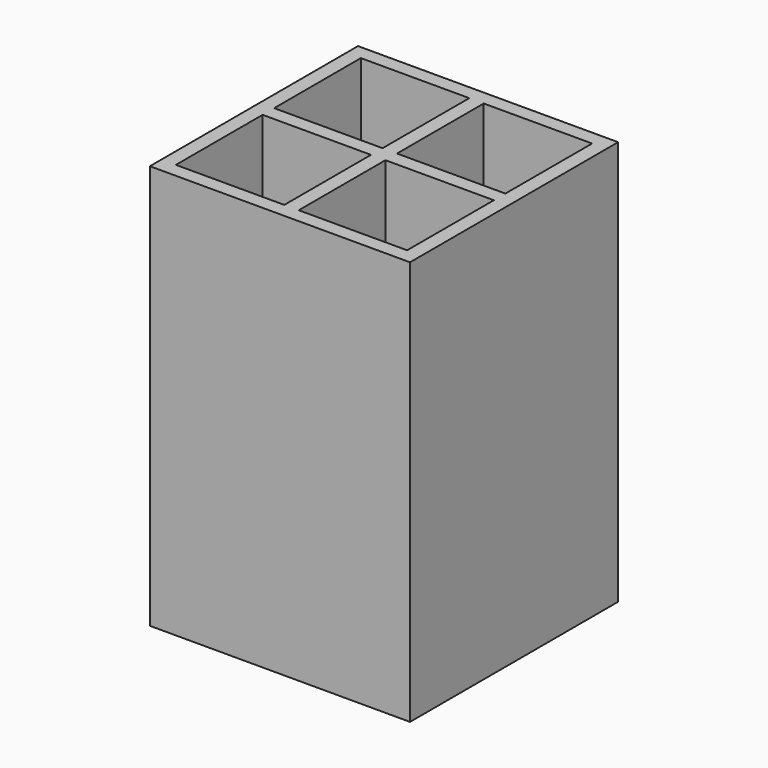
from build123d import *

# Parameters (mm, degrees)
F0_W     = 57.15
F0_H     = 88.9
F1_DEPTH = 57.15
F2_W     = 23.8125
F2_H     = 23.8125
F3_DEPTH = 85.725


with BuildPart() as f1:
    # F0 (on Front) → F1 (new body)
    with BuildSketch(Plane.XZ):
        Rectangle(F0_W, F0_H)
    extrude(amount=F1_DEPTH)

    # F2 (on face) → F3 (cut)
    with BuildSketch(Plane.XY.offset(44.45)):
        with Locations((13.49375, -42.06875)):
            Rectangle(F2_W, F2_H)
        with Locations((-13.49375, -42.06875)):
            Rectangle(F2_W, F2_H)
        with Locations((-13.49375, -15.08125)):
            Rectangle(F2_W, F2_H)
        with Locations((13.49375, -15.08125)):
            Rectangle(F2_W, F2_H)
    extrude(amount=-F3_DEPTH, mode=Mode.SUBTRACT)


solid = f1.part
